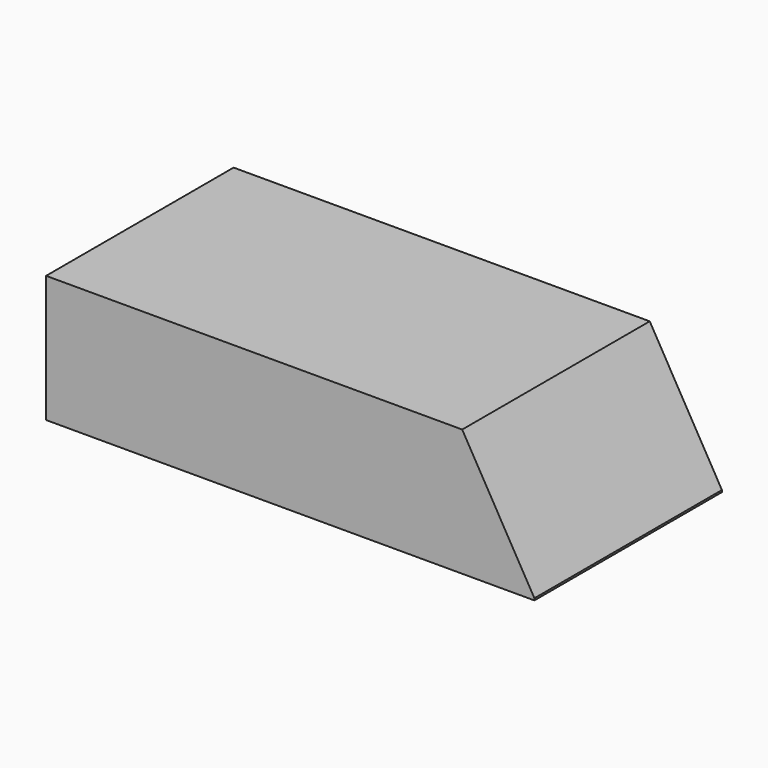
from build123d import *

# Parameters (mm, degrees)
BOX015_W               = 250
BOX015_H               = 120
BOX015_DEPTH           = 65
BOX015_PLACEMENT_ANGLE = 60
BOX014_W               = 250
BOX014_H               = 120
BOX014_DEPTH           = 65


with BuildPart() as box015:
    # Box015 → Box015 (new body)
    with BuildSketch(Plane.XY):
        with Locations((125, 60)):
            Rectangle(BOX015_W, BOX015_H)
    extrude(amount=BOX015_DEPTH)


with BuildPart() as box015_1:
    # Box015 placement: moved
    add(box015.part.moved(Location((187.927513, 0, 108.5))).rotate(Axis((187.927513, 0, 108.5), (0, 1, 0)), BOX015_PLACEMENT_ANGLE))


with BuildPart() as cut007:
    # Box014 → Box014 (new body)
    with BuildSketch(Plane.XY):
        with Locations((125, 60)):
            Rectangle(BOX014_W, BOX014_H)
    extrude(amount=BOX014_DEPTH)

    # Cut007: cut Box015
    add(box015_1.part, mode=Mode.SUBTRACT)


solid = cut007.part
